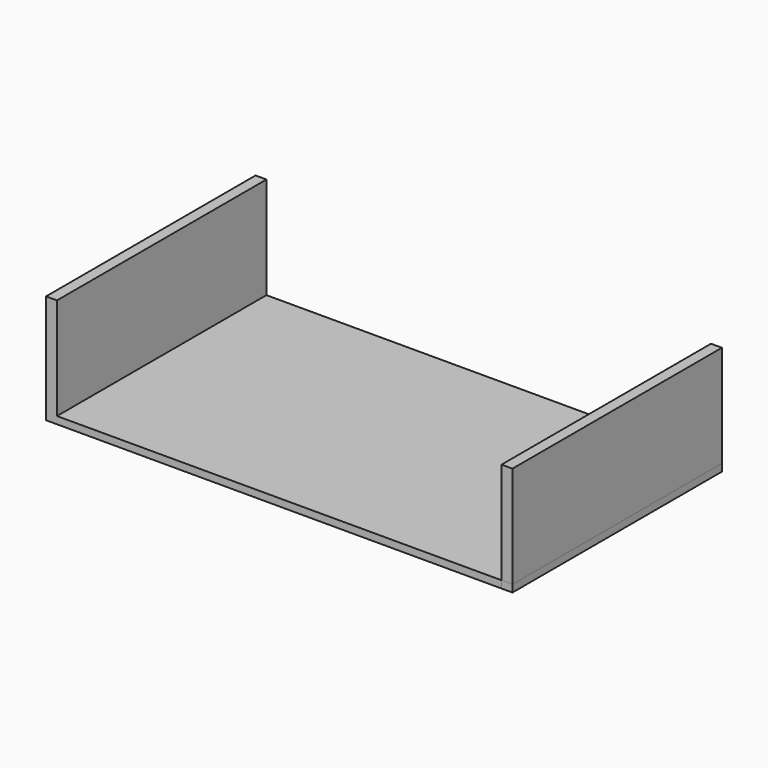
from build123d import *

# Parameters (mm, degrees)
F0_W     = 776.2875
F0_H     = 457.2
F1_DEPTH = 12.7
F2_W     = 457.2
F2_H     = 177.8
F3_DEPTH = 19.05
F4_DEPTH = 12.7
F5_W     = 457.2
F5_H     = 190.5
F6_DEPTH = 19.05


with BuildPart() as f1:
    # F0 (on Top) → F1 (new body)
    with BuildSketch(Plane.XY):
        Rectangle(F0_W, F0_H)
    extrude(amount=F1_DEPTH)

    # F5 (on face) → F6 (join)
    with BuildSketch(Plane(origin=(-388.14375, 0, 0), x_dir=(0, -1, 0), z_dir=(-1, 0, 0))):
        with Locations((0, 95.25)):
            Rectangle(F5_W, F5_H)
    extrude(amount=F6_DEPTH)


with BuildPart() as f3:
    # F2 (on face) → F3 (new body)
    with BuildSketch(Plane.YZ.offset(388.14375)):
        with Locations((0, 101.6)):
            Rectangle(F2_W, F2_H)
    extrude(amount=F3_DEPTH)


with BuildPart() as f4:
    # F4 (new): a face of the model
    f4_faces = [f3.part.faces().sort_by_distance(p)[0] for p in [
        (397.66875, 0, 12.7),
    ]]
    extrude(f4_faces, amount=F4_DEPTH)


solid = Compound([f1.part, f3.part, f4.part])
